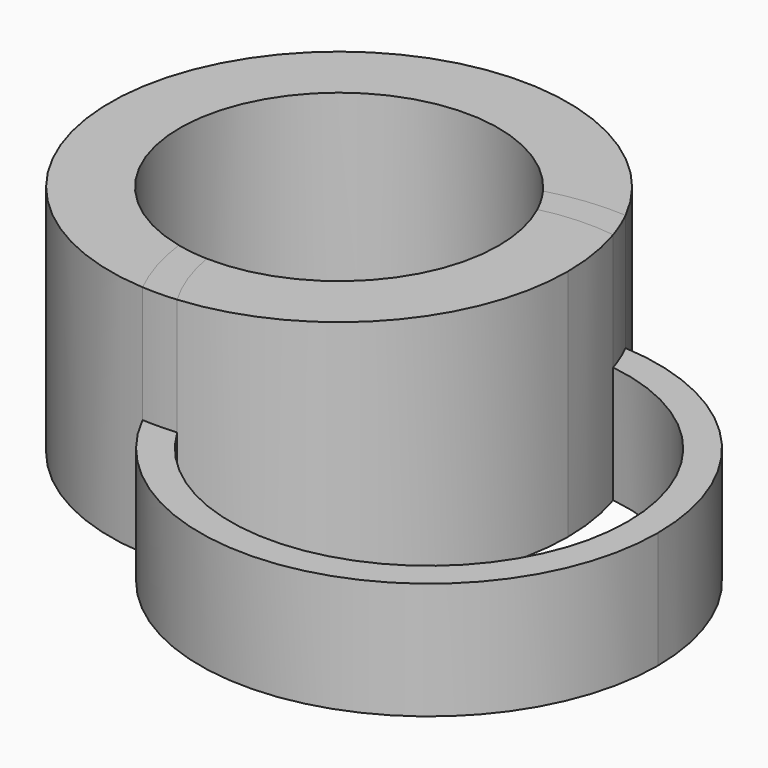
from build123d import *

# Parameters (mm, degrees)
F1_DEPTH = 20
F2_DEPTH = 20
F3_DEPTH = 20
F4_DEPTH = 20
F5_DEPTH = 10
F6_DEPTH = 10


with BuildPart() as f1:
    # F0 (on Top) → F1 (new body)
    with BuildSketch(Plane.XY):
        with BuildLine():
            ThreePointArc((11.0135375435, 8.0459521684), (14.2358136893, 8.6698464344), (17.5170326715, 8.7467203978))
            ThreePointArc((17.5170326715, 8.7467203978), (-16.3333984, 10.7968350936), (-1.1836342715, -19.5435554913))
            ThreePointArc((-1.1836342715, -19.5435554913), (-2.398584054, -16.494587692), (-3.087158825, -13.285511127))
            ThreePointArc((-3.087158825, -13.285511127), (-11.378255643, 7.5213465576), (11.0135375435, 8.0459521684))
        make_face()
    extrude(amount=F1_DEPTH)


with BuildPart() as f2:
    # F0 (on Top) → F2 (new body)
    with BuildSketch(Plane.XY):
        with BuildLine():
            ThreePointArc((1.745220777, -19.5014295827), (14.4485616362, -13.2132743094), (19.5793654476, 0))
            ThreePointArc((19.5793654476, 0), (19.3395265178, 3.0552030044), (18.6258855789, 6.0355561245))
            ThreePointArc((18.6258855789, 6.0355561245), (15.4885205684, 6.1699286825), (12.3800255295, 5.7245369599))
            ThreePointArc((12.3800255295, 5.7245369599), (13.3208941006, 2.9307227567), (13.6394778315, 0))
            ThreePointArc((13.6394778315, 0), (9.4963721158, -9.7905195039), (-0.4159388552, -13.6331342833))
            ThreePointArc((-0.4159388552, -13.6331342833), (0.3922823125, -16.667585426), (1.745220777, -19.5014295827))
        make_face()
    extrude(amount=F2_DEPTH)


with BuildPart() as f3:
    # F0 (on Top) → F3 (new body)
    with BuildSketch(Plane.XY):
        with BuildLine():
            ThreePointArc((-1.1836342715, -19.5435554913), (0.2815821351, -19.5773405454), (1.745220777, -19.5014295827))
            ThreePointArc((1.745220777, -19.5014295827), (0.3922823125, -16.667585426), (-0.4159388552, -13.6331342833))
            ThreePointArc((-0.4159388552, -13.6331342833), (-1.7601516423, -13.5254287072), (-3.087158825, -13.285511127))
            ThreePointArc((-3.087158825, -13.285511127), (-2.398584054, -16.494587692), (-1.1836342715, -19.5435554913))
        make_face()
    extrude(amount=F3_DEPTH)


with BuildPart() as f4:
    # F0 (on Top) → F4 (new body)
    with BuildSketch(Plane.XY):
        with BuildLine():
            ThreePointArc((12.3800255295, 5.7245369599), (15.4885205684, 6.1699286825), (18.6258855789, 6.0355561245))
            ThreePointArc((18.6258855789, 6.0355561245), (18.1222304875, 7.4119034996), (17.5170326715, 8.7467203978))
            ThreePointArc((17.5170326715, 8.7467203978), (14.2358136893, 8.6698464344), (11.0135375435, 8.0459521684))
            ThreePointArc((11.0135375435, 8.0459521684), (11.7542307471, 6.9190617183), (12.3800255295, 5.7245369599))
        make_face()
    extrude(amount=F4_DEPTH)


with BuildPart() as f5:
    # F0 (on Top) → F5 (new body)
    with BuildSketch(Plane.XY):
        with BuildLine():
            ThreePointArc((17.5170326715, 8.7467203978), (18.1222304875, 7.4119034996), (18.6258855789, 6.0355561245))
            ThreePointArc((18.6258855789, 6.0355561245), (29.130452249, 0.3754656708), (33.3211849416, -10.7968350936))
            ThreePointArc((33.3211849416, -10.7968350936), (20.8480436846, -27.1737355798), (1.745220777, -19.5014295827))
            ThreePointArc((1.745220777, -19.5014295827), (0.2815821351, -19.5773405454), (-1.1836342715, -19.5435554913))
            ThreePointArc((-1.1836342715, -19.5435554913), (20.8266804465, -29.8536440547), (35.9127638476, -10.7968350936))
            ThreePointArc((35.9127638476, -10.7968350936), (30.5904380522, 2.6228657856), (17.5170326715, 8.7467203978))
        make_face()
    extrude(amount=F5_DEPTH)


with BuildPart() as f6:
    # F0 (on Top) → F6 (new body)
    with BuildSketch(Plane.XY):
        with BuildLine():
            ThreePointArc((-0.4159388552, -13.6331342833), (2.1619337394, -1.4290989233), (12.3800255295, 5.7245369599))
            ThreePointArc((12.3800255295, 5.7245369599), (11.7542307471, 6.9190617183), (11.0135375435, 8.0459521684))
            ThreePointArc((11.0135375435, 8.0459521684), (0, 0), (-3.087158825, -13.285511127))
            ThreePointArc((-3.087158825, -13.285511127), (-1.7601516423, -13.5254287072), (-0.4159388552, -13.6331342833))
        make_face()
    extrude(amount=F6_DEPTH)


solid = Compound([f1.part, f2.part, f3.part, f4.part, f5.part, f6.part])
